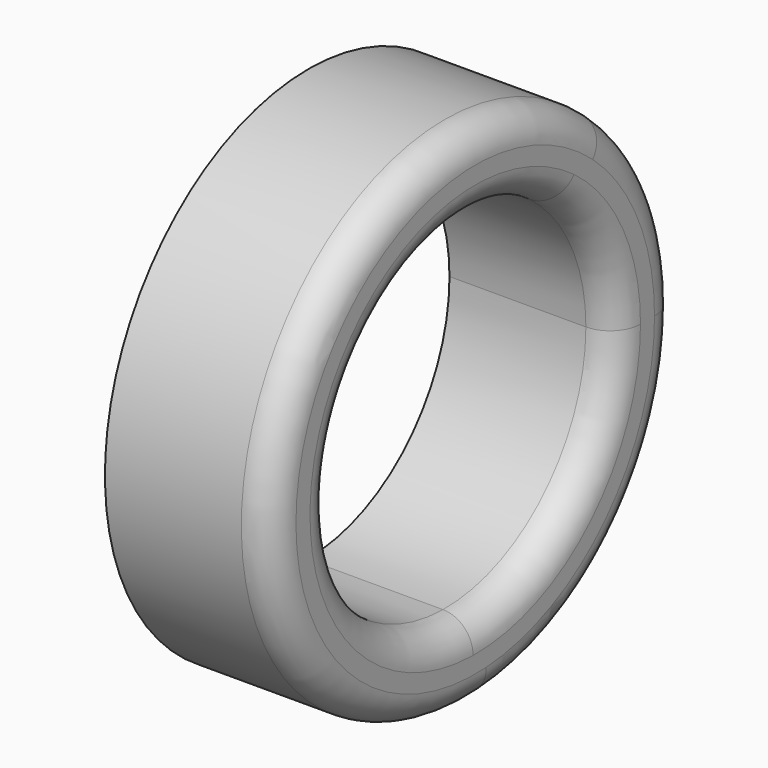
from build123d import *

# Parameters (mm, degrees)
F1_DEPTH = 50
F2_R     = 9.097272


with BuildPart() as f1:
    # F0 (on Right) → F1 (new body)
    with BuildSketch(Plane.YZ):
        with BuildLine():
            ThreePointArc((31.588309, 42.371733), (47.236881, 23.703631), (52.850592, 0))
            ThreePointArc((52.850592, 0), (37.121585, -37.618785), (-0.703132, -52.845914))
            ThreePointArc((-0.703132, -52.845914), (1.366054, -64.640751), (4.641868, -76.158942))
            ThreePointArc((4.641868, -76.158942), (55.569359, -52.285541), (76.300272, 0))
            ThreePointArc((76.300272, 0), (69.417814, 31.668573), (50.012069, 57.623992))
            ThreePointArc((50.012069, 57.623992), (40.405478, 50.474648), (31.588309, 42.371733))
        make_face()
        with BuildLine():
            ThreePointArc((-0.703132, -52.845914), (-50.050711, 16.973845), (31.588309, 42.371733))
            ThreePointArc((31.588309, 42.371733), (40.405478, 50.474648), (50.012069, 57.623992))
            ThreePointArc((50.012069, 57.623992), (-72.25809, 24.505099), (4.641868, -76.158942))
            ThreePointArc((4.641868, -76.158942), (1.366054, -64.640751), (-0.703132, -52.845914))
        make_face()
    extrude(amount=F1_DEPTH)

    # F2
    f2_edges = [f1.edges().sort_by_distance(p)[0] for p in [
        (50, -4.641868, 76.158942),
        (50, -31.588309, -42.371733),
    ]]
    fillet(f2_edges, radius=F2_R)


solid = f1.part
